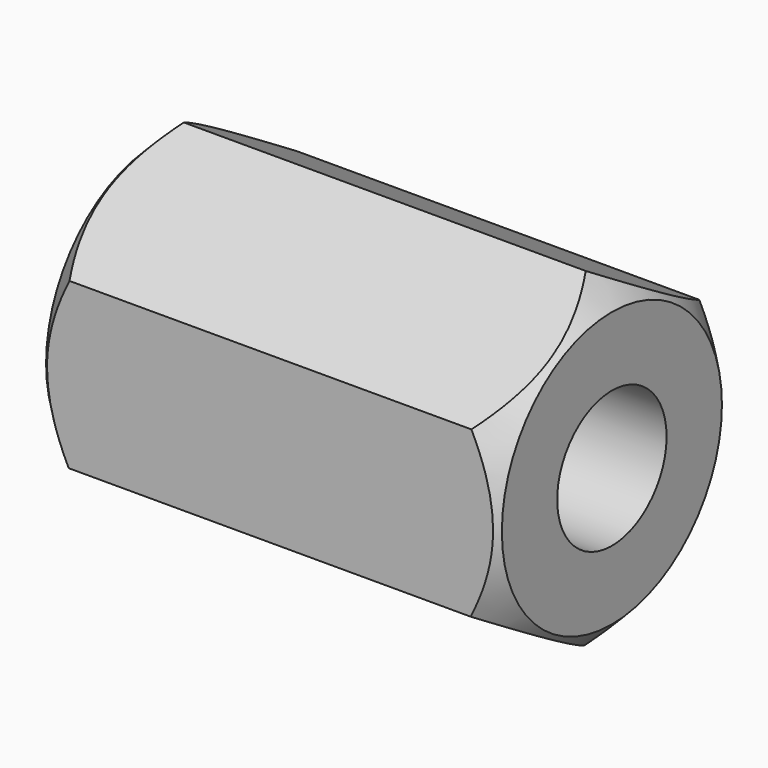
from build123d import *

# Parameters (mm, degrees)
F0_R     = 1.2
F1_DEPTH = 4


with BuildPart() as f1:
    # F0 (on Right) → F1 (new body, symmetric)
    with BuildSketch(Plane.YZ):
        Polygon((-0.0173955408, -2.8866989328), (2.4912568385, -1.4584144466), (2.5086523793, 1.4282844861), (0.0173955408, 2.8866989328), (-2.4912568385, 1.4584144466), (-2.5086523793, -1.4282844861), align=None)
        Circle(F0_R, mode=Mode.SUBTRACT)
    extrude(amount=F1_DEPTH, both=True)

    # F2 (on Front) → F3 (revolve, cut)
    with BuildSketch(Plane.XZ):
        Polygon((4.7379877966, -3.6760166123), (4.7379877966, -1.6760166123), (2.7379877966, -3.6760166123), align=None)
        Polygon((-4.7379877966, -1.6760166123), (-4.7379877966, -3.6760166123), (-2.7379877966, -3.6760166123), align=None)
    revolve(axis=Axis((0, 0, 0), (-1, 0, 0)), mode=Mode.SUBTRACT)


solid = f1.part
